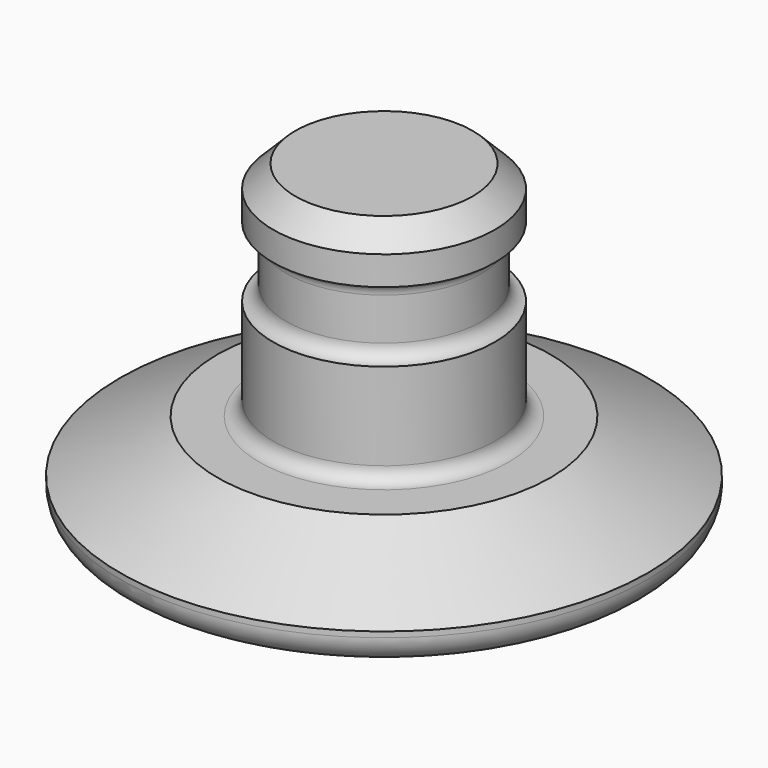
from build123d import *

# Parameters (mm, degrees)
F2_SIZE = 2.54
F3_R    = 3.175


with BuildPart() as f1:
    # F0 (on Front) → F1 (revolve)
    with BuildSketch(Plane.XZ):
        with BuildLine():
            Line((12.6746, 20.479507), (0, 20.479507))
            Line((0, 20.479507), (0, -14.699493))
            Line((0, -14.699493), (30.1625, -14.699493))
            Line((30.1625, -14.699493), (30.1625, -10.889493))
            Line((30.1625, -10.889493), (19.05, -4.920493))
            Line((19.05, -4.920493), (14.2621, -4.920493))
            ThreePointArc((14.2621, -4.920493), (13.139568, -4.455525), (12.6746, -3.332993))
            Line((12.6746, -3.332993), (12.6746, 6.636507))
            Line((12.6746, 6.636507), (12.6746, 6.638998))
            ThreePointArc((12.6746, 6.638998), (11.609965, 7.133359), (11.176, 8.224007))
            Line((11.176, 8.224007), (11.176, 13.050007))
            ThreePointArc((11.176, 13.050007), (11.609965, 14.140656), (12.6746, 14.635016))
            Line((12.6746, 14.635016), (12.6746, 14.637507))
            Line((12.6746, 14.637507), (12.6746, 20.479507))
        make_face()
    revolve(axis=Axis((0, 0, 2.082966), (0, 0, -1)))

    # F2
    f2_edges = [f1.edges().sort_by_distance(p)[0] for p in [
        (-12.6746, 0, 20.479507),
    ]]
    chamfer(f2_edges, length=F2_SIZE)

    # F3
    f3_edges = [f1.edges().sort_by_distance(p)[0] for p in [
        (-30.1625, 0, -14.699493),
    ]]
    fillet(f3_edges, radius=F3_R)


solid = f1.part
